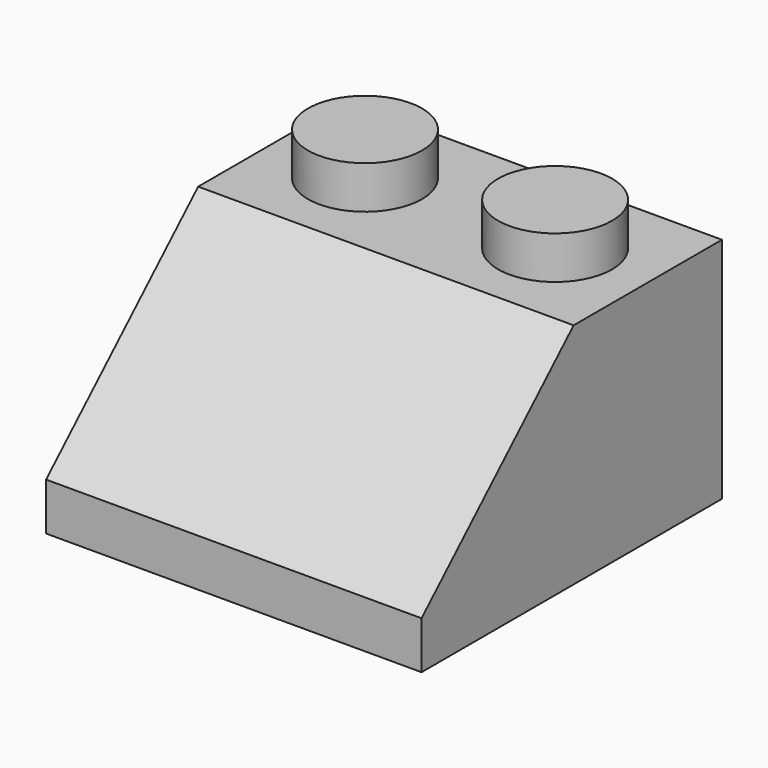
from build123d import *

# Parameters (mm, degrees)
F1_DEPTH = 7.9
F2_R     = 2.4
F3_DEPTH = 1.8
F4_T     = -1
F5_R     = 3.255
F5_R_2   = 2.4


with BuildPart() as f1:
    # F0 (on Right) → F1 (new body, symmetric)
    with BuildSketch(Plane.YZ):
        Polygon((-15.8, 0), (0, 0), (0, 9.6), (-7.8, 9.6), (-15.8, 2), align=None)
    extrude(amount=F1_DEPTH, both=True)

    # F2 (on face) → F3 (join)
    with BuildSketch(Plane.XY.offset(9.6)):
        with Locations((-4, -3.9)):
            Circle(F2_R)
        with Locations((4, -3.9)):
            Circle(F2_R)
    extrude(amount=F3_DEPTH)

    # F4
    f4_openings = [f1.faces().sort_by_distance(p)[0] for p in [
        (0, -7.9, 0),
    ]]
    offset(amount=F4_T, openings=f4_openings, kind=Kind.INTERSECTION)

    # F5 (on face) → F6 (join, up to the next surface of F1)
    with BuildSketch(Plane(origin=(0, 0, 0), x_dir=(1, 0, 0), z_dir=(0, 0, -1))):
        with Locations((0, 7.9)):
            Circle(F5_R)
        with Locations((0, 7.9)):
            Circle(F5_R_2, mode=Mode.SUBTRACT)
    extrude(until=Until.NEXT, dir=(0, 0, 1))


solid = f1.part
